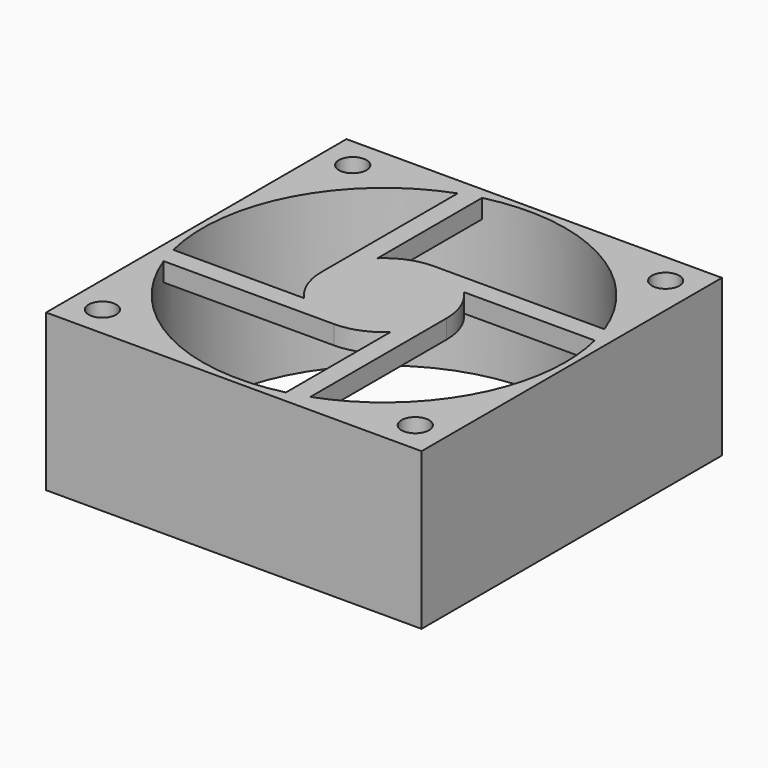
from build123d import *

# Parameters (mm, degrees)
F0_W     = 60
F0_H     = 60
F0_R     = 2.2
F0_R_2   = 29
F1_DEPTH = 25
F3_DEPTH = 3


with BuildPart() as f1:
    # F0 (on Top) → F1 (new body)
    with BuildSketch(Plane.XY):
        Rectangle(F0_W, F0_H)
        with Locations((-25, -25)):
            Circle(F0_R, mode=Mode.SUBTRACT)
        with Locations((25, -25)):
            Circle(F0_R, mode=Mode.SUBTRACT)
        with Locations((-25, 25)):
            Circle(F0_R, mode=Mode.SUBTRACT)
        Circle(F0_R_2, mode=Mode.SUBTRACT)
        with Locations((25, 25)):
            Circle(F0_R, mode=Mode.SUBTRACT)
    extrude(amount=F1_DEPTH)

    # F2 (on face) → F3 (join)
    with BuildSketch(Plane.XY.offset(25)):
        with BuildLine():
            Line((-10, 27.221315), (-10, 0))
            ThreePointArc((-10, 0), (-9.293222, -3.692698), (-7.272797, -6.863412))
            Line((-7.272797, -6.863412), (-28.176117, -6.863412))
            ThreePointArc((-28.176117, -6.863412), (-27.743079, -8.445211), (-27.221315, -10))
            Line((-27.221315, -10), (0, -10))
            ThreePointArc((0, -10), (3.692698, -9.293222), (6.863412, -7.272797))
            Line((6.863412, -7.272797), (6.863412, -28.176117))
            ThreePointArc((6.863412, -28.176117), (8.445211, -27.743079), (10, -27.221315))
            Line((10, -27.221315), (10, 0))
            ThreePointArc((10, 0), (9.293222, 3.692698), (7.272797, 6.863412))
            Line((7.272797, 6.863412), (28.176117, 6.863412))
            ThreePointArc((28.176117, 6.863412), (27.743079, 8.445211), (27.221315, 10))
            Line((27.221315, 10), (0, 10))
            ThreePointArc((0, 10), (-3.692698, 9.293222), (-6.863412, 7.272797))
            Line((-6.863412, 7.272797), (-6.863412, 28.176117))
            ThreePointArc((-6.863412, 28.176117), (-8.445211, 27.743079), (-10, 27.221315))
        make_face()
    extrude(amount=-F3_DEPTH)


solid = f1.part
